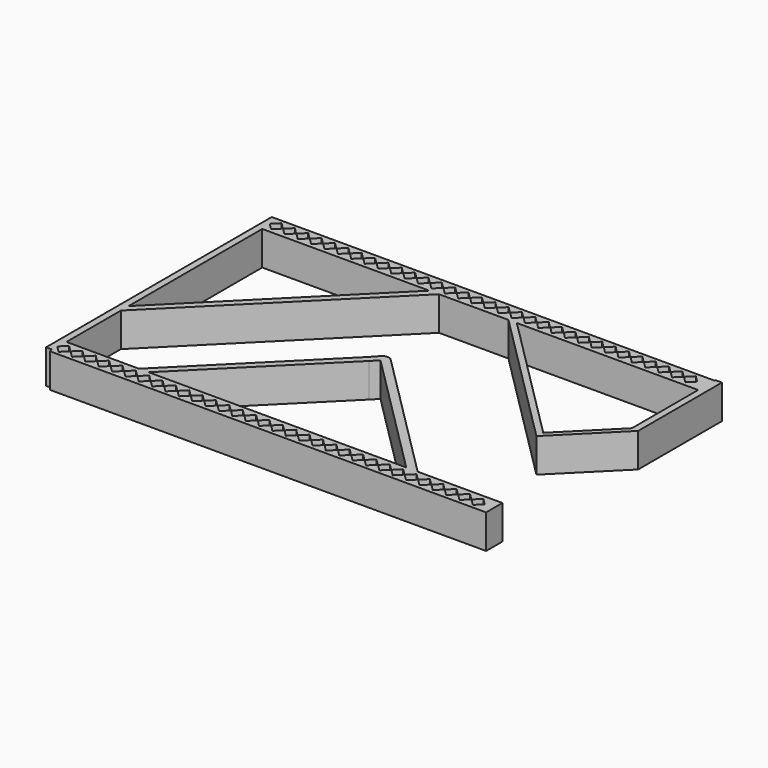
from build123d import *

# Parameters (mm, degrees)
F1_DEPTH = 15
F2_R     = 3


with BuildPart() as f1:
    # F0 (on Top) → F1 (new body)
    with BuildSketch(Plane.XY):
        Polygon((-123.863788, 6.460073), (-123.863788, 0), (-123.423272, -1.5), (68.980373, -1.5), (68.980373, 7.5), (56.419196, 7.5), (31.576728, 7.5), (26.54224, 7.5), (-87.180631, 7.5), (-91.423272, 7.5), (-123.423272, 7.5), align=None)
        Polygon((-118.015512, 2.899138), (-120.91465, 0), (-123.813788, 2.899138), (-120.91465, 5.798276), align=None, mode=Mode.SUBTRACT)
        Polygon((-117.915512, 2.899138), (-115.016374, 5.798276), (-112.117237, 2.899138), (-115.016374, 0), align=None, mode=Mode.SUBTRACT)
        Polygon((-106.218961, 2.899138), (-109.118099, 0), (-112.017237, 2.899138), (-109.118099, 5.798276), align=None, mode=Mode.SUBTRACT)
        Polygon((-103.219823, 0), (-106.118961, 2.899138), (-103.219823, 5.798276), (-100.320685, 2.899138), align=None, mode=Mode.SUBTRACT)
        Polygon((-97.321547, 5.798276), (-94.42241, 2.899138), (-97.321547, 0), (-100.220685, 2.899138), align=None, mode=Mode.SUBTRACT)
        Polygon((-94.32241, 2.899138), (-91.423272, 5.798276), (-88.524134, 2.899138), (-91.423272, 0), align=None, mode=Mode.SUBTRACT)
        Polygon((-85.524996, 5.798276), (-82.625858, 2.899138), (-85.524996, 0), (-88.424134, 2.899138), align=None, mode=Mode.SUBTRACT)
        Polygon((-82.525858, 2.899138), (-79.626721, 5.798276), (-76.727583, 2.899138), (-79.626721, 0), align=None, mode=Mode.SUBTRACT)
        Polygon((-73.728445, 5.798276), (-70.829307, 2.899138), (-73.728445, 0), (-76.627583, 2.899138), align=None, mode=Mode.SUBTRACT)
        Polygon((-70.729307, 2.899138), (-67.830169, 5.798276), (-64.931032, 2.899138), (-67.830169, 0), align=None, mode=Mode.SUBTRACT)
        Polygon((-61.931894, 5.798276), (-59.032756, 2.899138), (-61.931894, 0), (-64.831032, 2.899138), align=None, mode=Mode.SUBTRACT)
        Polygon((-58.932756, 2.899138), (-56.033618, 5.798276), (-53.13448, 2.899138), (-56.033618, 0), align=None, mode=Mode.SUBTRACT)
        Polygon((-50.135343, 5.798276), (-47.236205, 2.899138), (-50.135343, 0), (-53.03448, 2.899138), align=None, mode=Mode.SUBTRACT)
        Polygon((-47.136205, 2.899138), (-44.237067, 5.798276), (-41.337929, 2.899138), (-44.237067, 0), align=None, mode=Mode.SUBTRACT)
        Polygon((-38.338791, 5.798276), (-35.439654, 2.899138), (-38.338791, 0), (-41.237929, 2.899138), align=None, mode=Mode.SUBTRACT)
        Polygon((-35.339654, 2.899138), (-32.440516, 5.798276), (-29.541378, 2.899138), (-32.440516, 0), align=None, mode=Mode.SUBTRACT)
        Polygon((-26.54224, 5.798276), (-23.643102, 2.899138), (-26.54224, 0), (-29.441378, 2.899138), align=None, mode=Mode.SUBTRACT)
        Polygon((-23.543102, 2.899138), (-20.643965, 5.798276), (-17.744827, 2.899138), (-20.643965, 0), align=None, mode=Mode.SUBTRACT)
        Polygon((-14.745689, 5.798276), (-11.846551, 2.899138), (-14.745689, 0), (-17.644827, 2.899138), align=None, mode=Mode.SUBTRACT)
        Polygon((-8.847413, 5.798276), (-5.948276, 2.899138), (-8.847413, 0), (-11.746551, 2.899138), align=None, mode=Mode.SUBTRACT)
        Polygon((-0.05, 2.899138), (-2.949138, 0), (-5.848276, 2.899138), (-2.949138, 5.798276), align=None, mode=Mode.SUBTRACT)
        Polygon((5.848276, 2.899138), (2.949138, 0), (0.05, 2.899138), (2.949138, 5.798276), align=None, mode=Mode.SUBTRACT)
        Polygon((8.847413, 0), (5.948276, 2.899138), (8.847413, 5.798276), (11.746551, 2.899138), align=None, mode=Mode.SUBTRACT)
        Polygon((17.644827, 2.899138), (14.745689, 0), (11.846551, 2.899138), (14.745689, 5.798276), align=None, mode=Mode.SUBTRACT)
        Polygon((17.744827, 2.899138), (20.643965, 5.798276), (23.543102, 2.899138), (20.643965, 0), align=None, mode=Mode.SUBTRACT)
        Polygon((26.54224, 0), (23.643102, 2.899138), (26.54224, 5.798276), (29.441378, 2.899138), align=None, mode=Mode.SUBTRACT)
        Polygon((32.440516, 0), (29.541378, 2.899138), (32.440516, 5.798276), (35.339654, 2.899138), align=None, mode=Mode.SUBTRACT)
        Polygon((41.237929, 2.899138), (38.338791, 0), (35.439654, 2.899138), (38.338791, 5.798276), align=None, mode=Mode.SUBTRACT)
        Polygon((44.237067, 0), (41.337929, 2.899138), (44.237067, 5.798276), (47.136205, 2.899138), align=None, mode=Mode.SUBTRACT)
        Polygon((53.03448, 2.899138), (50.135343, 0), (47.236205, 2.899138), (50.135343, 5.798276), align=None, mode=Mode.SUBTRACT)
        Polygon((56.033618, 0), (53.13448, 2.899138), (56.033618, 5.798276), (58.932756, 2.899138), align=None, mode=Mode.SUBTRACT)
        Polygon((64.831032, 2.899138), (61.931894, 0), (59.032756, 2.899138), (61.931894, 5.798276), align=None, mode=Mode.SUBTRACT)
        Polygon((-49.665913, 115.5), (-45.423272, 115.5), (-37.553214, 115.5), (-14.745689, 115.5), (-11.055299, 115.5), (68.980373, 115.5), (68.980373, 124.5), (-123.423272, 124.5), (-123.423272, 120.491378), (-120.91465, 123), (-118.015512, 120.100862), (-120.91465, 117.201724), (-123.423272, 119.710346), (-123.423272, 115.5), align=None)
        Polygon((-117.915512, 120.100862), (-115.016374, 123), (-112.117237, 120.100862), (-115.016374, 117.201724), align=None, mode=Mode.SUBTRACT)
        Polygon((-106.218961, 120.100862), (-109.118099, 117.201724), (-112.017237, 120.100862), (-109.118099, 123), align=None, mode=Mode.SUBTRACT)
        Polygon((-106.118961, 120.100862), (-103.219823, 123), (-100.320685, 120.100862), (-103.219823, 117.201724), align=None, mode=Mode.SUBTRACT)
        Polygon((-100.220685, 120.100862), (-97.321547, 123), (-94.42241, 120.100862), (-97.321547, 117.201724), align=None, mode=Mode.SUBTRACT)
        Polygon((-88.524134, 120.100862), (-91.423272, 117.201724), (-94.32241, 120.100862), (-91.423272, 123), align=None, mode=Mode.SUBTRACT)
        Polygon((-85.524996, 123), (-82.625858, 120.100862), (-85.524996, 117.201724), (-88.424134, 120.100862), align=None, mode=Mode.SUBTRACT)
        Polygon((-82.525858, 120.100862), (-79.626721, 123), (-76.727583, 120.100862), (-79.626721, 117.201724), align=None, mode=Mode.SUBTRACT)
        Polygon((-70.829307, 120.100862), (-73.728445, 117.201724), (-76.627583, 120.100862), (-73.728445, 123), align=None, mode=Mode.SUBTRACT)
        Polygon((-70.729307, 120.100862), (-67.830169, 123), (-64.931032, 120.100862), (-67.830169, 117.201724), align=None, mode=Mode.SUBTRACT)
        Polygon((-59.032756, 120.100862), (-61.931894, 117.201724), (-64.831032, 120.100862), (-61.931894, 123), align=None, mode=Mode.SUBTRACT)
        Polygon((-56.033618, 123), (-53.13448, 120.100862), (-56.033618, 117.201724), (-58.932756, 120.100862), align=None, mode=Mode.SUBTRACT)
        Polygon((-50.135343, 123), (-47.236205, 120.100862), (-50.135343, 117.201724), (-53.03448, 120.100862), align=None, mode=Mode.SUBTRACT)
        Polygon((-47.136205, 120.100862), (-44.237067, 123), (-41.337929, 120.100862), (-44.237067, 117.201724), align=None, mode=Mode.SUBTRACT)
        Polygon((-35.439654, 120.100862), (-38.338791, 117.201724), (-41.237929, 120.100862), (-38.338791, 123), align=None, mode=Mode.SUBTRACT)
        Polygon((-32.440516, 123), (-29.541378, 120.100862), (-32.440516, 117.201724), (-35.339654, 120.100862), align=None, mode=Mode.SUBTRACT)
        Polygon((-23.643102, 120.100862), (-26.54224, 117.201724), (-29.441378, 120.100862), (-26.54224, 123), align=None, mode=Mode.SUBTRACT)
        Polygon((-20.643965, 117.201724), (-23.543102, 120.100862), (-20.643965, 123), (-17.744827, 120.100862), align=None, mode=Mode.SUBTRACT)
        Polygon((-17.644827, 120.100862), (-14.745689, 123), (-11.846551, 120.100862), (-14.745689, 117.201724), align=None, mode=Mode.SUBTRACT)
        Polygon((-8.847413, 123), (-5.948276, 120.100862), (-8.847413, 117.201724), (-11.746551, 120.100862), align=None, mode=Mode.SUBTRACT)
        Polygon((-0.05, 120.100862), (-2.949138, 117.201724), (-5.848276, 120.100862), (-2.949138, 123), align=None, mode=Mode.SUBTRACT)
        Polygon((2.949138, 123), (5.848276, 120.100862), (2.949138, 117.201724), (0.05, 120.100862), align=None, mode=Mode.SUBTRACT)
        Polygon((11.746551, 120.100862), (8.847413, 117.201724), (5.948276, 120.100862), (8.847413, 123), align=None, mode=Mode.SUBTRACT)
        Polygon((14.745689, 117.201724), (11.846551, 120.100862), (14.745689, 123), (17.644827, 120.100862), align=None, mode=Mode.SUBTRACT)
        Polygon((17.744827, 120.100862), (20.643965, 123), (23.543102, 120.100862), (20.643965, 117.201724), align=None, mode=Mode.SUBTRACT)
        Polygon((26.54224, 117.201724), (23.643102, 120.100862), (26.54224, 123), (29.441378, 120.100862), align=None, mode=Mode.SUBTRACT)
        Polygon((32.440516, 123), (35.339654, 120.100862), (32.440516, 117.201724), (29.541378, 120.100862), align=None, mode=Mode.SUBTRACT)
        Polygon((35.439654, 120.100862), (38.338791, 123), (41.237929, 120.100862), (38.338791, 117.201724), align=None, mode=Mode.SUBTRACT)
        Polygon((44.237067, 117.201724), (41.337929, 120.100862), (44.237067, 123), (47.136205, 120.100862), align=None, mode=Mode.SUBTRACT)
        Polygon((53.03448, 120.100862), (50.135343, 117.201724), (47.236205, 120.100862), (50.135343, 123), align=None, mode=Mode.SUBTRACT)
        Polygon((58.932756, 120.100862), (56.033618, 117.201724), (53.13448, 120.100862), (56.033618, 123), align=None, mode=Mode.SUBTRACT)
        Polygon((59.032756, 120.100862), (61.931894, 123), (64.831032, 120.100862), (61.931894, 117.201724), align=None, mode=Mode.SUBTRACT)
        Polygon((-126.423272, 42.601423), (-126.423272, 38.854256), (-126.346371, 38.819542), (-123.423272, 41.742641), (-123.423272, 115.5), (-123.423272, 119.710346), (-123.813788, 120.100862), (-123.423272, 120.491378), (-123.423272, 124.5), (-126.423272, 124.5), align=None)
        Polygon((-35.049964, 63.873308), (-91.423272, 7.5), (-87.180631, 7.5), (-33.180631, 61.5), (-30.311418, 64.353658), (26.54224, 7.5), (31.576728, 7.5), (-30.164127, 69.240855), align=None)
        Polygon((-11.055299, 115.5), (-14.745689, 115.5), (46.954311, 53.8), (47.236437, 57.208264), align=None)
        Polygon((-126.423272, 0), (-123.863788, 0), (-123.863788, 6.460073), (-123.423272, 7.5), (-123.423272, 37.5), (-126.346371, 38.819542), (-126.423272, 38.742641), align=None)
        Polygon((68.980373, 124.943852), (68.980373, 124.5), (68.980373, 115.5), (68.980373, 78.952201), (71.912417, 78.758106), (71.912417, 124.943852), align=None)
        Polygon((-126.346371, 38.819542), (-123.423272, 37.5), (-50.988243, 109.935029), (-45.423272, 115.5), (-49.665913, 115.5), (-123.423272, 41.742641), align=None)
        Polygon((47.236437, 57.208264), (46.954311, 53.8), (71.912417, 78.758106), (68.980373, 78.952201), align=None)
    extrude(amount=F1_DEPTH)

    # F2
    f2_edges = [f1.edges().sort_by_distance(p)[0] for p in [
        (-30.164127, 69.240855, 7.5),
    ]]
    fillet(f2_edges, radius=F2_R)


solid = f1.part
